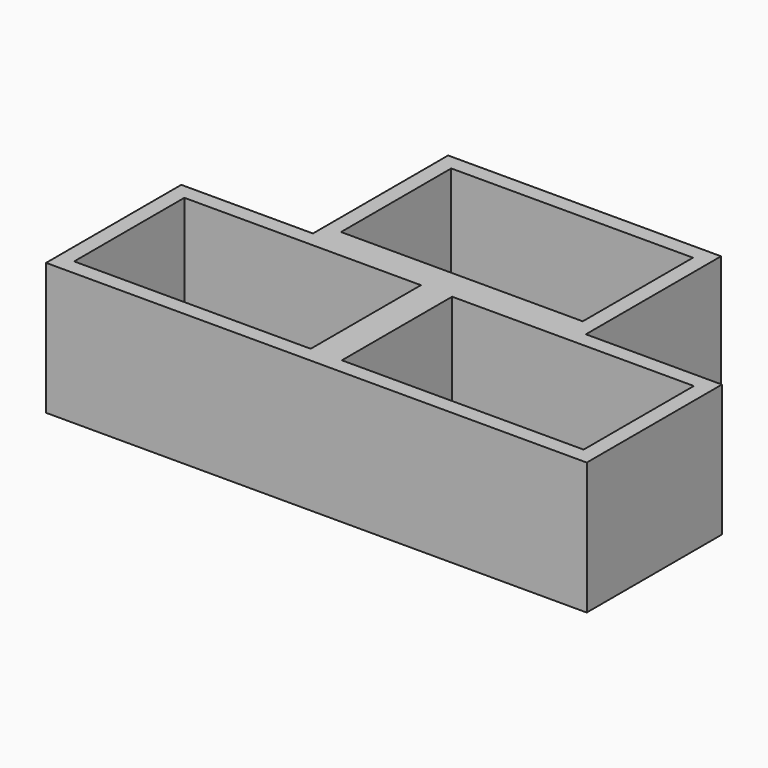
from build123d import *

# Parameters (mm, degrees)
F0_W     = 45.5
F0_H     = 26.5
F0_W_2   = 46.5
F1_DEPTH = 2
F2_DEPTH = 25.4


with BuildPart() as f1:
    # F0 (on Top) → F1 (new body)
    with BuildSketch(Plane.XY):
        with Locations((-25.75, 13.25)):
            Rectangle(F0_W, F0_H)
        with Locations((26.25, 13.25)):
            Rectangle(F0_W_2, F0_H)
        with Locations((0.08165, 45.75)):
            Rectangle(F0_W_2, F0_H)
    extrude(amount=F1_DEPTH)


with BuildPart() as f2:
    # F0 (on Top) → F2 (new body)
    with BuildSketch(Plane.XY):
        Polygon((26.33165, 62), (0.08165, 62), (-23.16835, 62), (-26.16835, 62), (-26.16835, 32.5), (-26.16835, 29.5), (-51.5, 29.5), (-51.5, 26.5), (-51.5, -3), (-48.5, -3), (52.5, -3), (52.5, 0), (52.5, 29.5), (26.33165, 29.5), (26.33165, 32.5), align=None)
        with Locations((-25.75, 13.25)):
            Rectangle(F0_W, F0_H, mode=Mode.SUBTRACT)
        with Locations((26.25, 13.25)):
            Rectangle(F0_W_2, F0_H, mode=Mode.SUBTRACT)
        with Locations((0.08165, 45.75)):
            Rectangle(F0_W_2, F0_H, mode=Mode.SUBTRACT)
    extrude(amount=F2_DEPTH)


solid = Compound([f1.part, f2.part])
